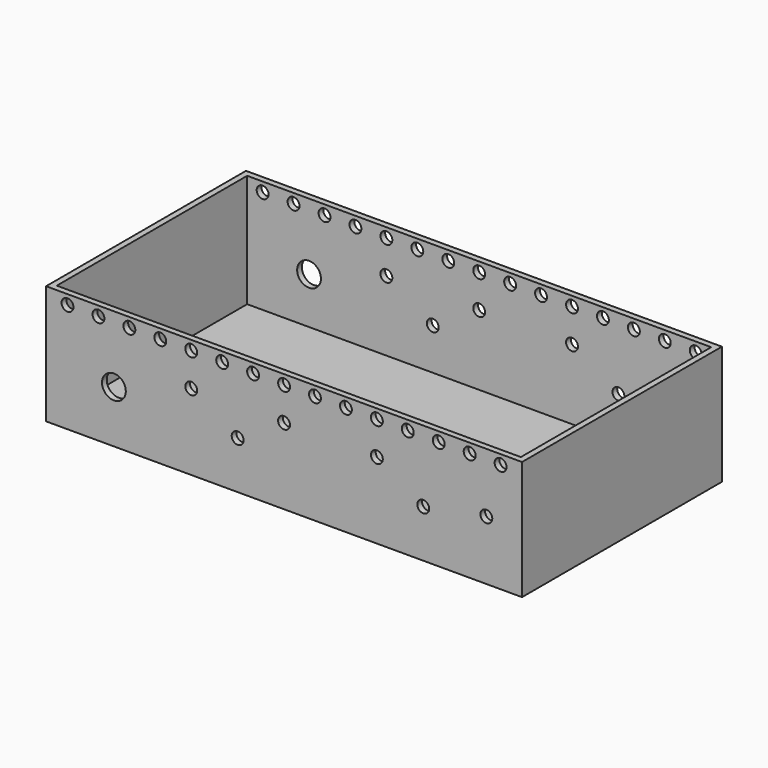
from build123d import *

# Parameters (mm, degrees)
F0_W     = 200
F0_H     = 105
F1_DEPTH = 50
F2_T     = -2.5
F3_R     = 2.5
F3_R_2   = 5
F4_DEPTH = 105


with BuildPart() as f1:
    # F0 (on Top) → F1 (new body)
    with BuildSketch(Plane.XY):
        Rectangle(F0_W, F0_H)
    extrude(amount=F1_DEPTH)

    # F2
    f2_openings = [f1.faces().sort_by_distance(p)[0] for p in [
        (0, 0, 50),
    ]]
    offset(amount=F2_T, openings=f2_openings)

    # F3 (on face) → F4 (cut, through all)
    with BuildSketch(Plane.XZ.offset(52.5)):
        with Locations((-91, 46)):
            Circle(F3_R)
        with Locations((-78, 46)):
            Circle(F3_R)
        with Locations((-65, 46)):
            Circle(F3_R)
        with Locations((-52, 46)):
            Circle(F3_R)
        with Locations((-39, 46)):
            Circle(F3_R)
        with Locations((-26, 46)):
            Circle(F3_R)
        with Locations((-13, 46)):
            Circle(F3_R)
        with Locations((0, 46)):
            Circle(F3_R)
        with Locations((13, 46)):
            Circle(F3_R)
        with Locations((26, 46)):
            Circle(F3_R)
        with Locations((39, 46)):
            Circle(F3_R)
        with Locations((52, 46)):
            Circle(F3_R)
        with Locations((65, 46)):
            Circle(F3_R)
        with Locations((78, 46)):
            Circle(F3_R)
        with Locations((91, 46)):
            Circle(F3_R)
        with Locations((-39, 32)):
            Circle(F3_R)
        with Locations((0, 32)):
            Circle(F3_R)
        with Locations((39, 32)):
            Circle(F3_R)
        with Locations((-71.5, 22)):
            Circle(F3_R_2)
        with Locations((-19.5, 20)):
            Circle(F3_R)
        with Locations((58.5, 20)):
            Circle(F3_R)
        with Locations((85, 25)):
            Circle(F3_R)
    extrude(amount=-F4_DEPTH, mode=Mode.SUBTRACT)


solid = f1.part
